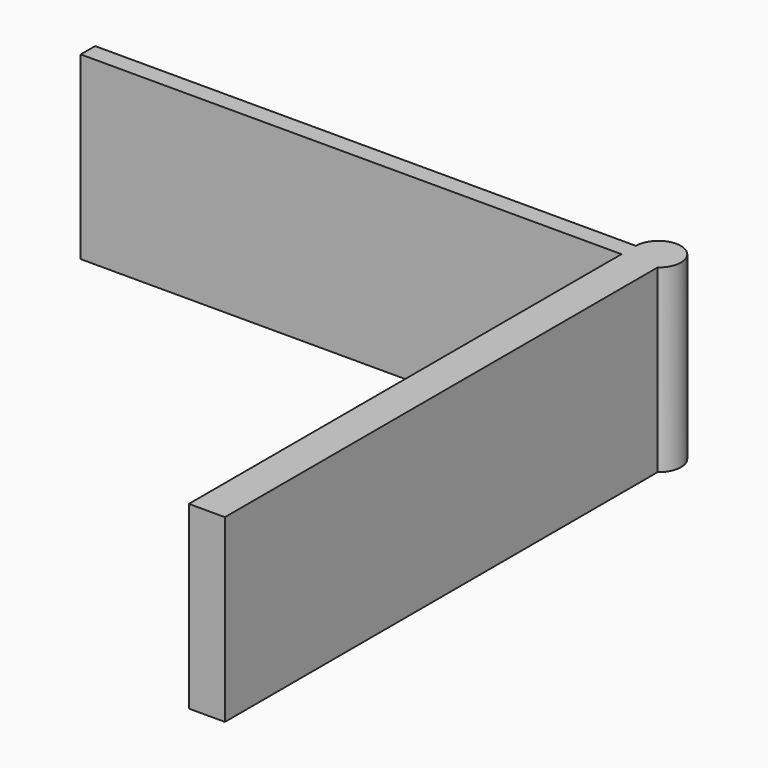
from build123d import *

# Parameters (mm, degrees)
PAD_DEPTH = 10


with BuildPart() as part:
    # Sketch → Pad (new body)
    with BuildSketch(Plane.XY):
        with BuildLine():
            Line((30, 0), (30, 30))
            Line((30, 30), (0, 30))
            Line((0, 30), (0, 31))
            Line((0, 31), (30, 31))
            ThreePointArc((32, 30), (31.809017, 32.118034), (30, 31))
            Line((32, 30), (32, 0))
            Line((32, 0), (30, 0))
        make_face()
    extrude(amount=PAD_DEPTH)


solid = part.part
